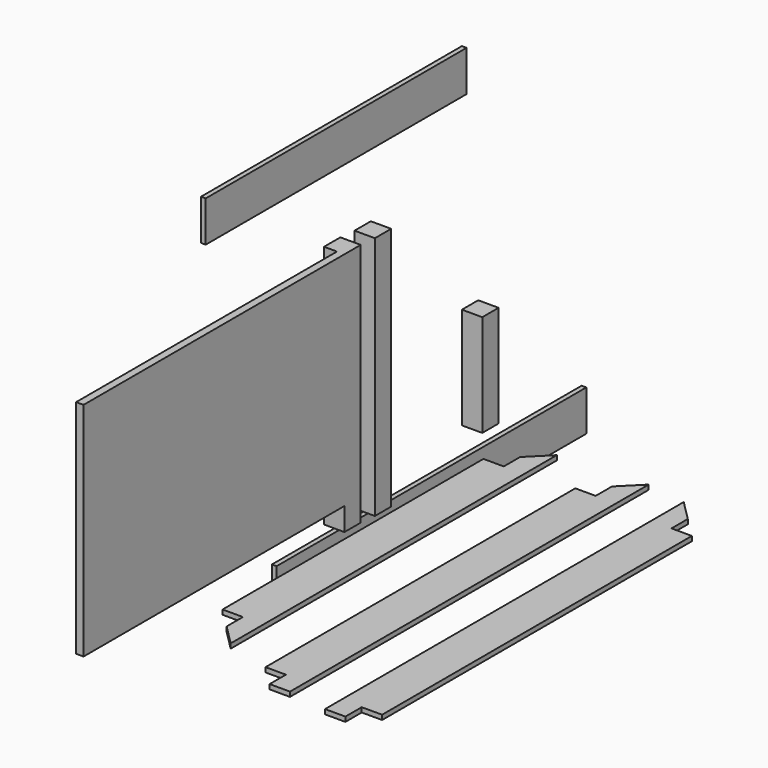
from build123d import *

# Parameters (mm, degrees)
F0_W      = 100
F0_H      = 100
F1_DEPTH  = 500
F2_W      = 1600
F2_H      = 200
F3_DEPTH  = 23
F5_DEPTH  = 23
F7_DEPTH  = 23
F9_DEPTH  = 23
F10_W     = 100
F10_H     = 100
F11_DEPTH = 1200
F12_W     = 36.471832
F12_H     = 1087.289286
F13_DEPTH = 1600
F14_W     = 120
F14_H     = 60
F15_DEPTH = 40
F16_W     = 40
F16_H     = 40
F17_DEPTH = 40
F18_W     = 1900
F18_H     = 200
F19_DEPTH = 23
F21_DEPTH = 23
F23_DEPTH = 23
F24_W     = 100
F24_H     = 100
F25_DEPTH = 1200


with BuildPart() as f1:
    # F0 (on Top) → F1 (new body)
    with BuildSketch(Plane.XY):
        with Locations((50, 50)):
            Rectangle(F0_W, F0_H)
    extrude(amount=F1_DEPTH)


with BuildPart() as f3:
    # F2 (on Right) → F3 (new body)
    with BuildSketch(Plane.YZ):
        with Locations((-800, 1538.560049)):
            Rectangle(F2_W, F2_H)
    extrude(amount=F3_DEPTH)


with BuildPart() as f5:
    # F4 (on Top) → F5 (new body)
    with BuildSketch(Plane.XY):
        Polygon((465.564324, 0), (265.564324, -200), (265.564324, -1800), (465.564324, -2000), align=None)
    extrude(amount=F5_DEPTH)

    # F6 (on face) → F7 (cut)
    with BuildSketch(Plane.XY.offset(23)):
        Polygon((365.564324, -1800), (265.564324, -1800), (365.564324, -1900), align=None)
    extrude(amount=-F7_DEPTH, mode=Mode.SUBTRACT)

    # F8 (on face) → F9 (cut)
    with BuildSketch(Plane.XY.offset(23)):
        Polygon((365.564324, -100), (265.564324, -200), (365.564324, -200), align=None)
    extrude(amount=-F9_DEPTH, mode=Mode.SUBTRACT)


with BuildPart() as f11:
    # F10 (on Top) → F11 (new body)
    with BuildSketch(Plane.XY):
        with Locations((151.482761, -922.357982)):
            Rectangle(F10_W, F10_H)
    extrude(amount=F11_DEPTH)

    # F12 (on face) → F13 (join)
    with BuildSketch(Plane.XZ.offset(972.357982)):
        with Locations((183.246845, 656.355357)):
            Rectangle(F12_W, F12_H)
    extrude(amount=F13_DEPTH)

    # F14 (on face) → F15 (join)
    with BuildSketch(Plane(origin=(165.010929, 0, 0), x_dir=(0, -1, 0), z_dir=(-1, 0, 0))):
        with Locations((1682.933529, 231.375635)):
            Rectangle(F14_W, F14_H)
    extrude(amount=F15_DEPTH)

    # F16 (on face) → F17 (cut)
    with BuildSketch(Plane.XY.offset(261.375635)):
        with Locations((145.010929, -1682.933529)):
            Rectangle(F16_W, F16_H)
    extrude(amount=-F17_DEPTH, mode=Mode.SUBTRACT)


with BuildPart() as f19:
    # F18 (on Right) → F19 (new body)
    with BuildSketch(Plane.YZ):
        with Locations((-215.717066, -226.863098)):
            Rectangle(F18_W, F18_H)
    extrude(amount=F19_DEPTH)


with BuildPart() as f21:
    # F20 (on Top) → F21 (new body)
    with BuildSketch(Plane.XY):
        Polygon((793.060017, -170.734648), (693.060017, -170.734648), (693.060017, -2070.734648), (793.060017, -2070.734648), (793.060017, -2170.734648), (893.060017, -2170.734648), (893.060017, 29.265352), (793.060017, -70.734648), align=None)
    extrude(amount=F21_DEPTH)


with BuildPart() as f23:
    # F22 (on Top) → F23 (new body)
    with BuildSketch(Plane.XY):
        Polygon((1188.475997, -100), (1088.475997, 0), (1088.475997, -2200), (1188.475997, -2200), (1188.475997, -2100), (1288.475997, -2100), (1288.475997, -200), (1188.475997, -200), align=None)
    extrude(amount=F23_DEPTH)


with BuildPart() as f25:
    # F24 (on Top) → F25 (new body)
    with BuildSketch(Plane.XY):
        with Locations((159.279283, -745.232552)):
            Rectangle(F24_W, F24_H)
    extrude(amount=F25_DEPTH)


solid = Compound([f1.part, f3.part, f5.part, f11.part, f19.part, f21.part, f23.part, f25.part])
